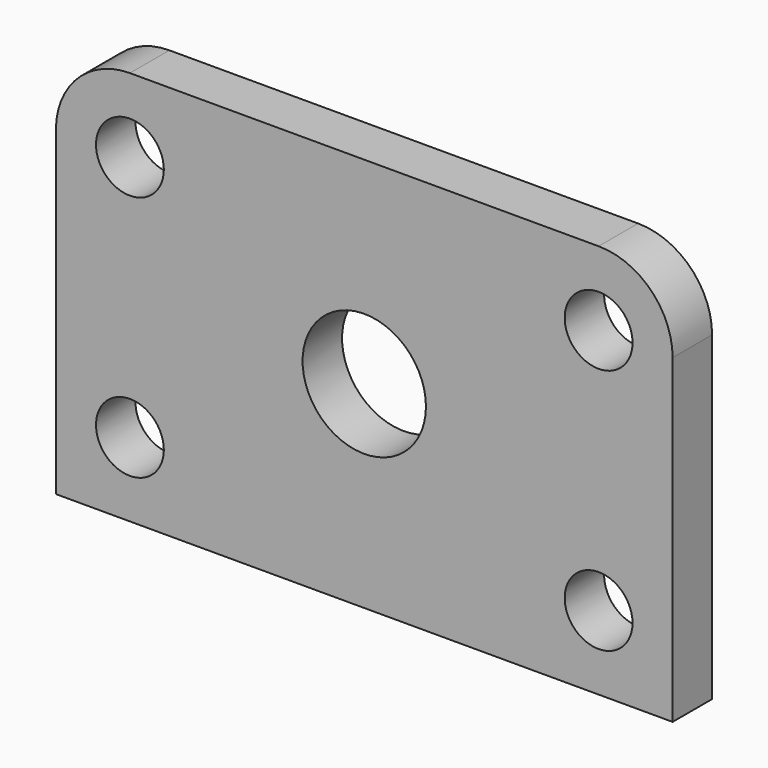
from build123d import *

# Parameters (mm, degrees)
F0_W      = 25
F0_H      = 16
F1_DEPTH  = 2
F2_R      = 1.375
F6_DEPTH  = 3
F3_R      = 1.375
F7_DEPTH  = 3
F4_R      = 1.375
F8_DEPTH  = 3
F5_R      = 1.375
F9_DEPTH  = 3
F10_R     = 3
F11_R     = 3
F12_R     = 2.5
F13_DEPTH = 3


with BuildPart() as f1:
    # F0 (on Front) → F1 (new body)
    with BuildSketch(Plane.XZ):
        with Locations((12.5, 8)):
            Rectangle(F0_W, F0_H)
    extrude(amount=F1_DEPTH)

    # F2 (on face) → F6 (cut)
    with BuildSketch(Plane.XZ.offset(2)):
        with Locations((3, 13)):
            Circle(F2_R)
    extrude(amount=-F6_DEPTH, mode=Mode.SUBTRACT)

    # F3 (on face) → F7 (cut)
    with BuildSketch(Plane.XZ.offset(2)):
        with Locations((3, 3)):
            Circle(F3_R)
    extrude(amount=-F7_DEPTH, mode=Mode.SUBTRACT)

    # F4 (on face) → F8 (cut)
    with BuildSketch(Plane.XZ.offset(2)):
        with Locations((22, 13)):
            Circle(F4_R)
    extrude(amount=-F8_DEPTH, mode=Mode.SUBTRACT)

    # F5 (on face) → F9 (cut)
    with BuildSketch(Plane.XZ.offset(2)):
        with Locations((22, 3)):
            Circle(F5_R)
    extrude(amount=-F9_DEPTH, mode=Mode.SUBTRACT)

    # F10
    f10_edges = [f1.edges().sort_by_distance(p)[0] for p in [
        (25, -1, 16),
    ]]
    fillet(f10_edges, radius=F10_R)

    # F11
    f11_edges = [f1.edges().sort_by_distance(p)[0] for p in [
        (0, -1, 16),
    ]]
    fillet(f11_edges, radius=F11_R)

    # F12 (on face) → F13 (cut)
    with BuildSketch(Plane.XZ.offset(2)):
        with Locations((12.5, 8)):
            Circle(F12_R)
    extrude(amount=-F13_DEPTH, mode=Mode.SUBTRACT)


solid = f1.part
